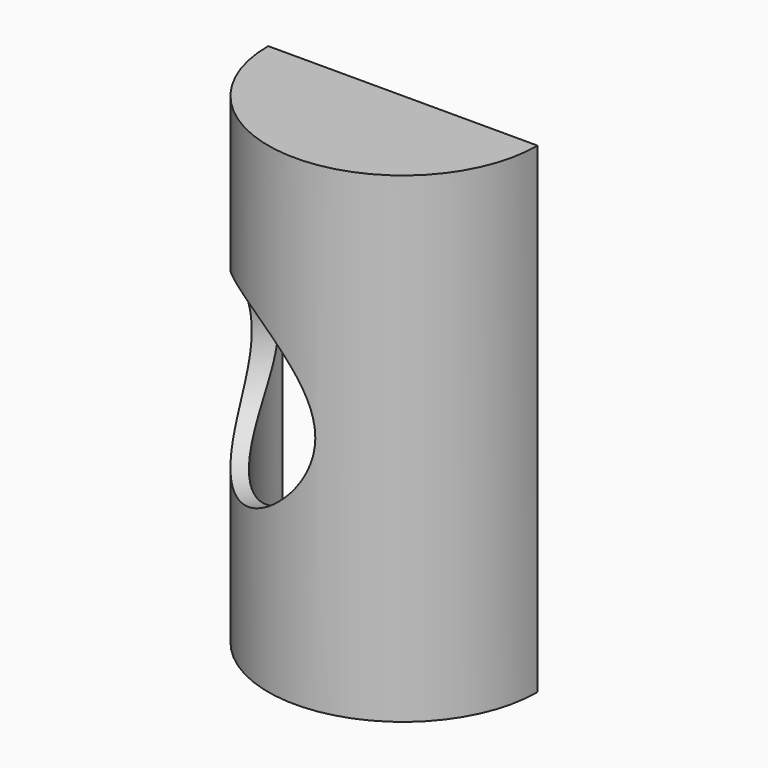
from build123d import *

# Parameters (mm, degrees)
CYLINDER_R        = 28
CYLINDER_DEPTH    = 100
CYLINDER002_R     = 25
CYLINDER002_DEPTH = 94
BOX_W             = 60
BOX_H             = 30
BOX_DEPTH         = 120
CYLINDER003_R     = 19.5
CYLINDER003_DEPTH = 30


with BuildPart() as part:
    # Cylinder → Cylinder (join)
    with BuildSketch(Plane.XY):
        Circle(CYLINDER_R)
    extrude(amount=CYLINDER_DEPTH)

    # Cylinder002 → Cylinder002 (cut)
    with BuildSketch(Plane.XY.offset(3)):
        Circle(CYLINDER002_R)
    extrude(amount=CYLINDER002_DEPTH, mode=Mode.SUBTRACT)

    # Box → Box (cut)
    with BuildSketch(Plane(origin=(-30, 0, -11), x_dir=(1, 0, 0), z_dir=(0, 0, 1))):
        with Locations((30, 15)):
            Rectangle(BOX_W, BOX_H)
    extrude(amount=BOX_DEPTH, mode=Mode.SUBTRACT)

    # Cylinder003 → Cylinder003 (cut)
    with BuildSketch(Plane(origin=(0, 0, 50), x_dir=(0.809017, -0.587785, 0), z_dir=(-0.587785, -0.809017, 0))):
        Circle(CYLINDER003_R)
    extrude(amount=CYLINDER003_DEPTH, mode=Mode.SUBTRACT)


solid = part.part
